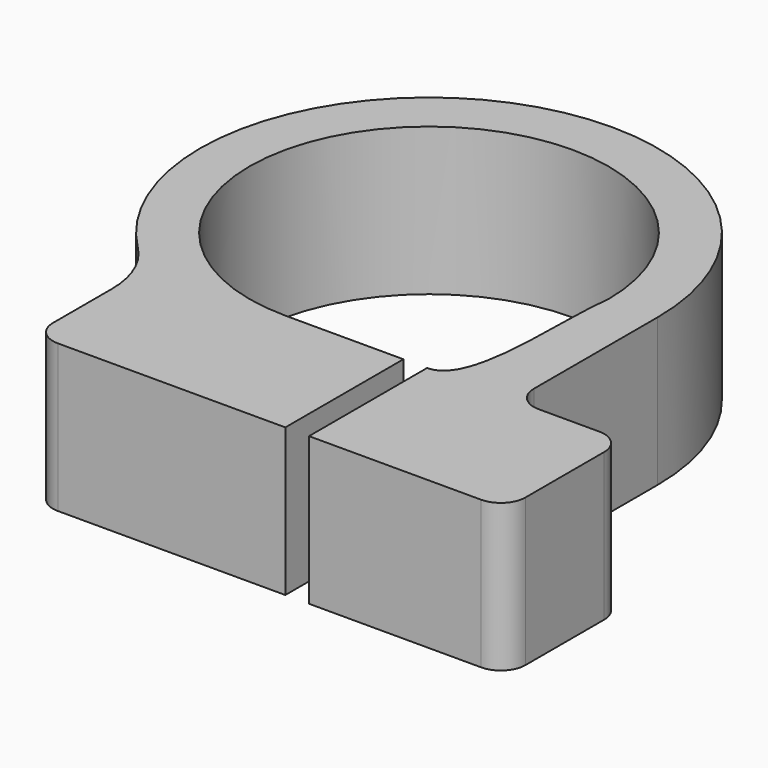
from build123d import *

# Parameters (mm, degrees)
F1_DEPTH = 9.525


with BuildPart() as f1:
    # F0 (on Top) → F1 (new body)
    with BuildSketch(Plane.XY):
        with BuildLine():
            ThreePointArc((0, -11.58875), (-8.194484, 8.194484), (11.58875, 0))
            add(Edge.make_bspline(
                [(9.147086, -11.58875), (12.021219, -11.58875), (11.099955, -3.330184), (11.58875, 0)],
                knots=[0, 0, 0, 0, 11.843177, 11.843177, 11.843177, 11.843177], degree=3))
            Line((9.147086, -11.58875), (9.147086, -21.11375))
            Line((9.147086, -21.11375), (20.259586, -21.11375))
            ThreePointArc((20.259586, -21.11375), (21.382118, -20.648782), (21.847086, -19.52625))
            Line((21.847086, -19.52625), (21.847086, -13.17625))
            ThreePointArc((21.847086, -13.17625), (21.382118, -12.053718), (20.259586, -11.58875))
            Line((20.259586, -11.58875), (16.35125, -11.58875))
            ThreePointArc((16.35125, -11.58875), (15.228718, -11.123782), (14.76375, -10.00125))
            Line((14.76375, -10.00125), (14.76375, 0))
            ThreePointArc((14.76375, 0), (-5.649843, 13.639926), (-10.439548, -10.439548))
            ThreePointArc((-10.439548, -10.439548), (-9.113907, -12.423509), (-8.648405, -14.76375))
            Line((-8.648405, -14.76375), (-8.648405, -19.52625))
            ThreePointArc((-8.648405, -19.52625), (-8.183437, -20.648782), (-7.060905, -21.11375))
            Line((-7.060905, -21.11375), (7.620076, -21.11375))
            Line((7.620076, -21.11375), (7.620076, -11.58875))
            Line((7.620076, -11.58875), (0, -11.58875))
        make_face()
    extrude(amount=F1_DEPTH)


solid = f1.part
